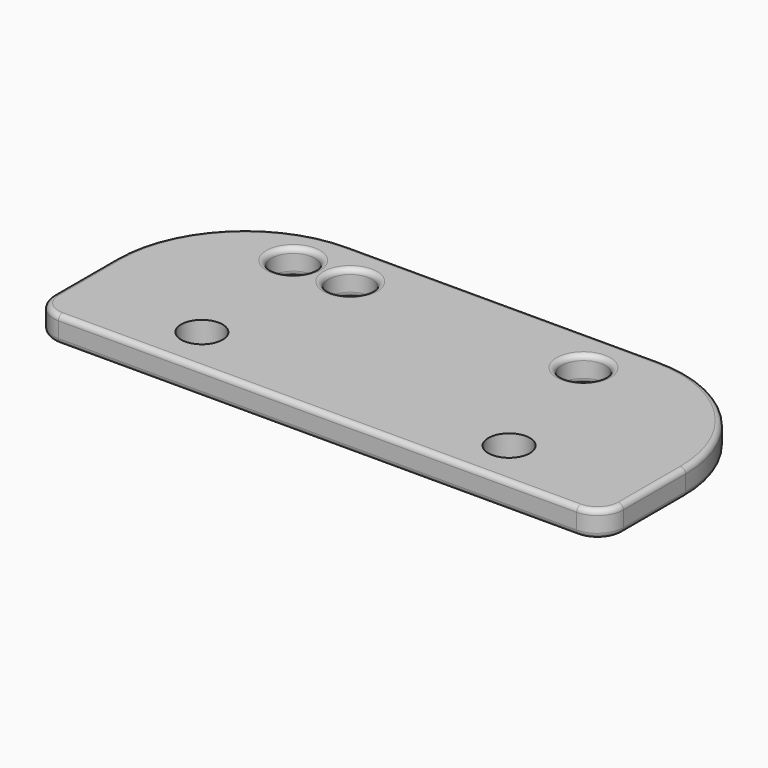
from build123d import *

# Parameters (mm, degrees)
F0_R     = 4.2
F1_DEPTH = 5
F2_R     = 5
F3_R     = 1
F4_R     = 4
F5_DEPTH = 5.001


with BuildPart() as f1:
    # F0 (on Top) → F1 (new body)
    with BuildSketch(Plane.XY):
        with BuildLine():
            Line((30, 22.5), (-30, 22.5))
            ThreePointArc((-30, 22.5), (-47.67767, 15.17767), (-55, -2.5))
            Line((-55, -2.5), (-55, -22.5))
            Line((-55, -22.5), (55, -22.5))
            Line((55, -22.5), (55, -2.5))
            ThreePointArc((55, -2.5), (47.67767, 15.17767), (30, 22.5))
        make_face()
        with Locations((-33.5, 13.5)):
            Circle(F0_R, mode=Mode.SUBTRACT)
        with Locations((-22.5, 13.5)):
            Circle(F0_R, mode=Mode.SUBTRACT)
        with Locations((22.5, 13.5)):
            Circle(F0_R, mode=Mode.SUBTRACT)
    extrude(amount=-F1_DEPTH)

    # F2
    f2_edges = [f1.edges().sort_by_distance(p)[0] for p in [
        (55, -22.5, -2.5),
        (-55, -22.5, -2.5),
    ]]
    fillet(f2_edges, radius=F2_R)

    # F3
    f3_edges = [f1.edges().sort_by_distance(p)[0] for p in [
        (-55, -10, 0),
        (-53.535534, -21.035534, 0),
        (-47.67767, 15.17767, 0),
        (0, -22.5, 0),
        (0, 22.5, 0),
        (53.535534, -21.035534, 0),
        (47.67767, 15.17767, 0),
        (55, -10, 0),
        (-37.7, 13.5, 0),
        (-26.7, 13.5, 0),
        (18.3, 13.5, 0),
        (-55, -10, -5),
        (-53.535534, -21.035534, -5),
        (-47.67767, 15.17767, -5),
        (0, -22.5, -5),
        (0, 22.5, -5),
        (53.535534, -21.035534, -5),
        (47.67767, 15.17767, -5),
        (55, -10, -5),
        (-37.7, 13.5, -5),
        (-26.7, 13.5, -5),
        (18.3, 13.5, -5),
    ]]
    fillet(f3_edges, radius=F3_R)

    # F4 (on face) → F5 (cut, through all)
    with BuildSketch(Plane.XY):
        with Locations((29.641269, -13.361172)):
            Circle(F4_R)
        with Locations((-29.641269, -13.361172)):
            Circle(F4_R)
    extrude(amount=-F5_DEPTH, mode=Mode.SUBTRACT)


solid = f1.part
